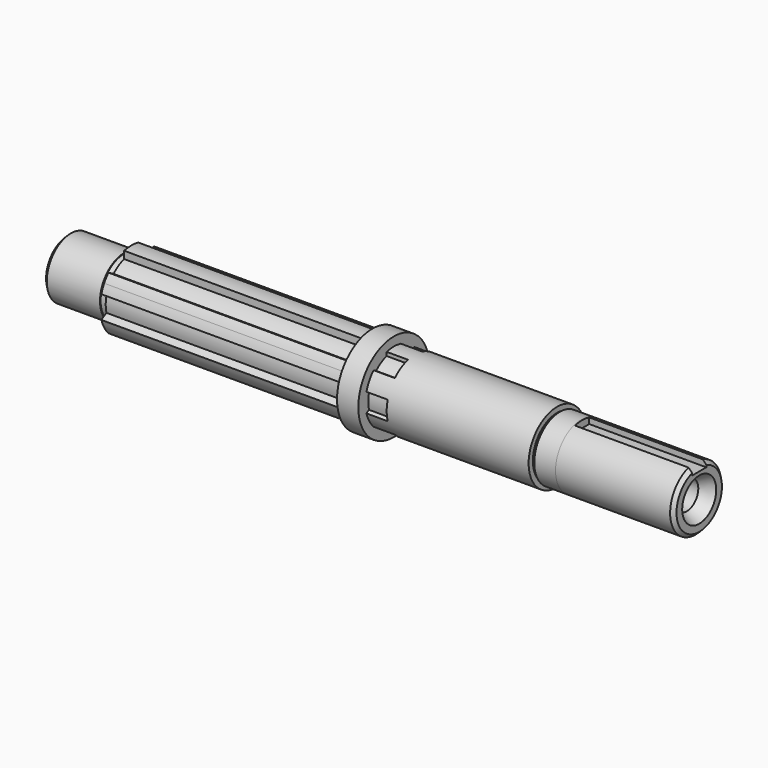
from build123d import *

# Parameters (mm, degrees)
F2_R            = 12.5
F3_DEPTH        = 6
F5_DEPTH        = 68
F6_R            = 12.5
F7_DEPTH        = 12
F8_DEPTH        = 6
F12_D           = 8
F12_DEPTH       = 25
F12_CSINK_D     = 12
F12_CSINK_ANGLE = 60
F12_TIP         = 2.4034424761
F14_DEPTH       = 33
F15_R           = 9
F15_R_2         = 8.5
F16_DEPTH       = 6


with BuildPart() as f1:
    # F0 (on Front) → F1 (revolve)
    with BuildSketch(Plane.XZ):
        Polygon((0, 10), (0, 0), (86.0796358759, 0), (86.0796358759, 8), (85.0796358759, 9), (52.7846625228, 9), (52.7846625228, 8.5), (46, 8.5), (46, 10), align=None)
    revolve(axis=Axis((43.0398179379, 0, 0), (-1, 0, 0)))

    # F2 (on face) → F3 (join)
    with BuildSketch(Plane(origin=(0, 0, 0), x_dir=(0, -1, 0), z_dir=(-1, 0, 0))):
        Circle(F2_R)
    extrude(amount=F3_DEPTH)

    # F4 (on face) → F5 (join)
    with BuildSketch(Plane(origin=(-6, 0, 0), x_dir=(0, -1, 0), z_dir=(-1, 0, 0))):
        with BuildLine():
            Line((8.0269876576, 7.5211348309), (6.2374895659, 6.4879676259))
            ThreePointArc((6.2374895659, 6.4879676259), (4.5, 7.7942286341), (2.5, 8.6458082329))
            Line((2.5, 8.6458082329), (2.5, 10.7121426428))
            ThreePointArc((2.5, 10.7121426428), (0, 11), (-2.5, 10.7121426428))
            Line((-2.5, 10.7121426428), (-2.5, 8.6458082329))
            ThreePointArc((-2.5, 8.6458082329), (-4.5, 7.7942286341), (-6.2374895659, 6.4879676259))
            Line((-6.2374895659, 6.4879676259), (-8.0269876576, 7.5211348309))
            ThreePointArc((-8.0269876576, 7.5211348309), (-9.5262794416, 5.5), (-10.5269876576, 3.1910078119))
            Line((-10.5269876576, 3.1910078119), (-8.7374895659, 2.157840607))
            ThreePointArc((-8.7374895659, 2.157840607), (-9, 0), (-8.7374895659, -2.157840607))
            Line((-8.7374895659, -2.157840607), (-10.5269876576, -3.1910078119))
            ThreePointArc((-10.5269876576, -3.1910078119), (-9.5262794416, -5.5), (-8.0269876576, -7.5211348309))
            Line((-8.0269876576, -7.5211348309), (-6.2374895659, -6.4879676259))
            ThreePointArc((-6.2374895659, -6.4879676259), (-4.5, -7.7942286341), (-2.5, -8.6458082329))
            Line((-2.5, -8.6458082329), (-2.5, -10.7121426428))
            ThreePointArc((-2.5, -10.7121426428), (0, -11), (2.5, -10.7121426428))
            Line((2.5, -10.7121426428), (2.5, -8.6458082329))
            ThreePointArc((2.5, -8.6458082329), (4.5, -7.7942286341), (6.2374895659, -6.4879676259))
            Line((6.2374895659, -6.4879676259), (8.0269876576, -7.5211348309))
            ThreePointArc((8.0269876576, -7.5211348309), (9.5262794416, -5.5), (10.5269876576, -3.1910078119))
            Line((10.5269876576, -3.1910078119), (8.7374895659, -2.157840607))
            ThreePointArc((8.7374895659, -2.157840607), (9, 0), (8.7374895659, 2.157840607))
            Line((8.7374895659, 2.157840607), (10.5269876576, 3.1910078119))
            ThreePointArc((10.5269876576, 3.1910078119), (10.0928807369, 4.3742151788), (9.5262794416, 5.5))
            ThreePointArc((9.5262794416, 5.5), (8.8346218349, 6.5535835262), (8.0269876576, 7.5211348309))
        make_face()
    extrude(amount=F5_DEPTH)

    # F6 (on face) → F7 (cut)
    with BuildSketch(Plane(origin=(-6, 0, 0), x_dir=(0, -1, 0), z_dir=(-1, 0, 0))):
        Circle(F6_R)
        with BuildLine():
            ThreePointArc((2.5, 8.6458082329), (4.5, 7.7942286341), (6.2374895659, 6.4879676259))
            Line((6.2374895659, 6.4879676259), (8.0269876576, 7.5211348309))
            ThreePointArc((8.0269876576, 7.5211348309), (9.5262794416, 5.5), (10.5269876576, 3.1910078119))
            Line((10.5269876576, 3.1910078119), (8.7374895659, 2.157840607))
            ThreePointArc((8.7374895659, 2.157840607), (9, 0), (8.7374895659, -2.157840607))
            Line((8.7374895659, -2.157840607), (10.5269876576, -3.1910078119))
            ThreePointArc((10.5269876576, -3.1910078119), (9.5262794416, -5.5), (8.0269876576, -7.5211348309))
            Line((8.0269876576, -7.5211348309), (6.2374895659, -6.4879676259))
            ThreePointArc((6.2374895659, -6.4879676259), (4.5, -7.7942286341), (2.5, -8.6458082329))
            Line((2.5, -8.6458082329), (2.5, -10.7121426428))
            ThreePointArc((2.5, -10.7121426428), (0, -11), (-2.5, -10.7121426428))
            Line((-2.5, -10.7121426428), (-2.5, -8.6458082329))
            ThreePointArc((-2.5, -8.6458082329), (-4.5, -7.7942286341), (-6.2374895659, -6.4879676259))
            Line((-6.2374895659, -6.4879676259), (-8.0269876576, -7.5211348309))
            ThreePointArc((-8.0269876576, -7.5211348309), (-9.5262794416, -5.5), (-10.5269876576, -3.1910078119))
            Line((-10.5269876576, -3.1910078119), (-8.7374895659, -2.157840607))
            ThreePointArc((-8.7374895659, -2.157840607), (-9, 0), (-8.7374895659, 2.157840607))
            Line((-8.7374895659, 2.157840607), (-10.5269876576, 3.1910078119))
            ThreePointArc((-10.5269876576, 3.1910078119), (-9.5262794416, 5.5), (-8.0269876576, 7.5211348309))
            Line((-8.0269876576, 7.5211348309), (-6.2374895659, 6.4879676259))
            ThreePointArc((-6.2374895659, 6.4879676259), (-4.5, 7.7942286341), (-2.5, 8.6458082329))
            Line((-2.5, 8.6458082329), (-2.5, 10.7121426428))
            ThreePointArc((-2.5, 10.7121426428), (0, 11), (2.5, 10.7121426428))
            Line((2.5, 10.7121426428), (2.5, 8.6458082329))
        make_face(mode=Mode.SUBTRACT)
    extrude(amount=-F7_DEPTH, mode=Mode.SUBTRACT)

    # F6 (on face) → F8 (join)
    with BuildSketch(Plane(origin=(-6, 0, 0), x_dir=(0, -1, 0), z_dir=(-1, 0, 0))):
        Circle(F6_R)
        with BuildLine():
            ThreePointArc((2.5, 8.6458082329), (4.5, 7.7942286341), (6.2374895659, 6.4879676259))
            Line((6.2374895659, 6.4879676259), (8.0269876576, 7.5211348309))
            ThreePointArc((8.0269876576, 7.5211348309), (9.5262794416, 5.5), (10.5269876576, 3.1910078119))
            Line((10.5269876576, 3.1910078119), (8.7374895659, 2.157840607))
            ThreePointArc((8.7374895659, 2.157840607), (9, 0), (8.7374895659, -2.157840607))
            Line((8.7374895659, -2.157840607), (10.5269876576, -3.1910078119))
            ThreePointArc((10.5269876576, -3.1910078119), (9.5262794416, -5.5), (8.0269876576, -7.5211348309))
            Line((8.0269876576, -7.5211348309), (6.2374895659, -6.4879676259))
            ThreePointArc((6.2374895659, -6.4879676259), (4.5, -7.7942286341), (2.5, -8.6458082329))
            Line((2.5, -8.6458082329), (2.5, -10.7121426428))
            ThreePointArc((2.5, -10.7121426428), (0, -11), (-2.5, -10.7121426428))
            Line((-2.5, -10.7121426428), (-2.5, -8.6458082329))
            ThreePointArc((-2.5, -8.6458082329), (-4.5, -7.7942286341), (-6.2374895659, -6.4879676259))
            Line((-6.2374895659, -6.4879676259), (-8.0269876576, -7.5211348309))
            ThreePointArc((-8.0269876576, -7.5211348309), (-9.5262794416, -5.5), (-10.5269876576, -3.1910078119))
            Line((-10.5269876576, -3.1910078119), (-8.7374895659, -2.157840607))
            ThreePointArc((-8.7374895659, -2.157840607), (-9, 0), (-8.7374895659, 2.157840607))
            Line((-8.7374895659, 2.157840607), (-10.5269876576, 3.1910078119))
            ThreePointArc((-10.5269876576, 3.1910078119), (-9.5262794416, 5.5), (-8.0269876576, 7.5211348309))
            Line((-8.0269876576, 7.5211348309), (-6.2374895659, 6.4879676259))
            ThreePointArc((-6.2374895659, 6.4879676259), (-4.5, 7.7942286341), (-2.5, 8.6458082329))
            Line((-2.5, 8.6458082329), (-2.5, 10.7121426428))
            ThreePointArc((-2.5, 10.7121426428), (0, 11), (2.5, 10.7121426428))
            Line((2.5, 10.7121426428), (2.5, 8.6458082329))
        make_face(mode=Mode.SUBTRACT)
    extrude(amount=-F8_DEPTH)

    # F9 (on Front) → F10 (revolve)
    with BuildSketch(Plane.XZ):
        Polygon((-92, 0), (-74, 0), (-74, 2.157840607), (-74, 3.1910078119), (-74, 7.5211348309), (-74, 8.3), (-76, 8.3), (-76, 8.5), (-91, 8.5), (-92, 7.5), align=None)
    revolve(axis=Axis((-83, 0, 0), (1, 0, 0)))

    # F12
    with Locations(Plane.YZ.offset(86.0796358759)):
        with Locations((0, 0)):
            CounterSinkHole(F12_D / 2, F12_CSINK_D / 2, depth=F12_DEPTH, counter_sink_angle=F12_CSINK_ANGLE)
            with Locations((0, 0, -(F12_DEPTH + F12_TIP / 2))):  # 118° drill point
                Cone(0, F12_D / 2, F12_TIP, mode=Mode.SUBTRACT)

    # F13 (on face) → F14 (cut)
    with BuildSketch(Plane.YZ.offset(86.0796358759)):
        with BuildLine():
            Line((-2.5, 7), (0, 7))
            Line((0, 7), (2.5, 7))
            Line((2.5, 7), (2.5, 8.6458082329))
            ThreePointArc((2.5, 8.6458082329), (0, 9), (-2.5, 8.6458082329))
            Line((-2.5, 8.6458082329), (-2.5, 7))
        make_face()
    extrude(amount=-F14_DEPTH, mode=Mode.SUBTRACT)

    # F15 (on face) → F16 (join)
    with BuildSketch(Plane(origin=(52.7846625228, 0, 0), x_dir=(0, -1, 0), z_dir=(-1, 0, 0))):
        Circle(F15_R)
        Circle(F15_R_2, mode=Mode.SUBTRACT)
    extrude(amount=F16_DEPTH)


solid = f1.part
